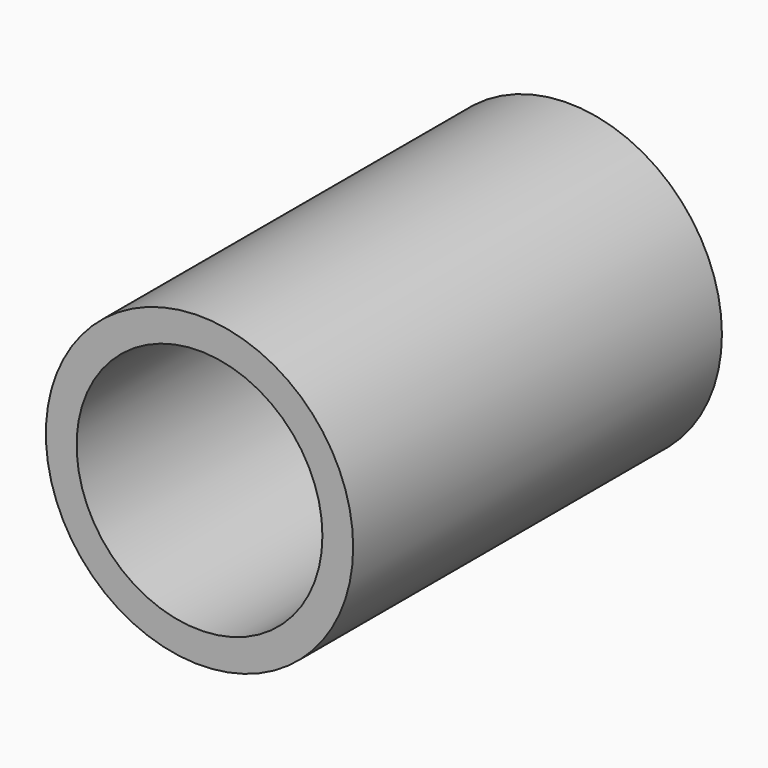
from build123d import *

# Parameters (mm, degrees)
F0_R     = 5
F0_R_2   = 4
F1_DEPTH = 5
F2_DEPTH = 7.5


with BuildPart() as f1:
    # F0 (on Front) → F1 (new body, symmetric)
    with BuildSketch(Plane.XZ):
        Circle(F0_R)
        Circle(F0_R_2, mode=Mode.SUBTRACT)
    extrude(amount=F1_DEPTH, both=True)


with BuildPart() as f2:
    # F0 (on Front) → F2 (new body, symmetric)
    with BuildSketch(Plane.XZ):
        Circle(F0_R)
        Circle(F0_R_2, mode=Mode.SUBTRACT)
    extrude(amount=F2_DEPTH, both=True)


solid = Compound([f1.part, f2.part])
